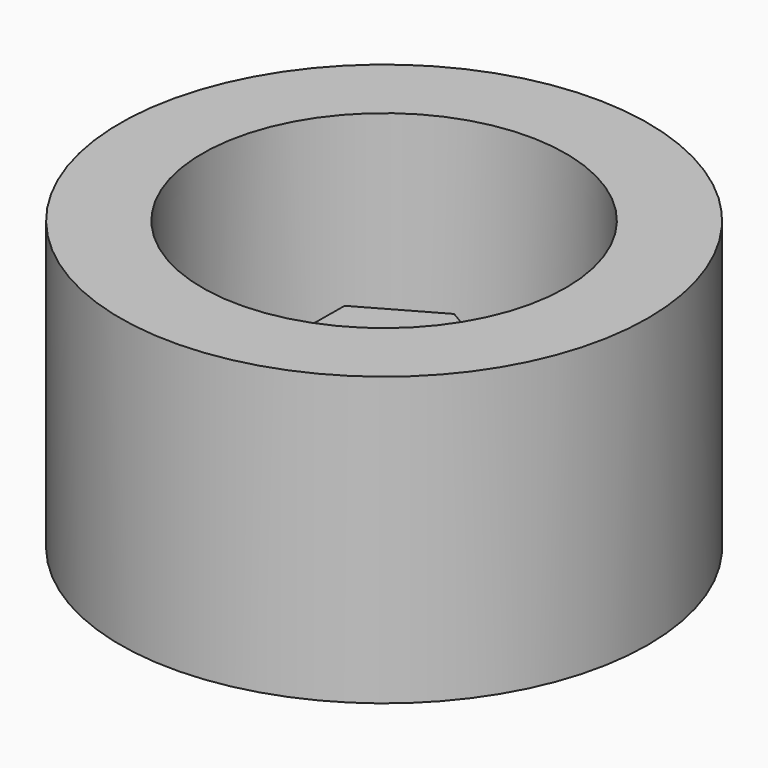
from build123d import *

# Parameters (mm, degrees)
F0_R     = 4.425
F1_DEPTH = 2
F0_R_2   = 6.425
F2_DEPTH = 7
F3_DEPTH = 4.15


with BuildPart() as f1:
    # F0 (on Top) → F1 (new body)
    with BuildSketch(Plane.XY):
        Circle(F0_R)
        Polygon((1.816103, -1.068927), (-0.017667, -2.107254), (-1.833769, -1.038327), (-1.816103, 1.068927), (0.017667, 2.107254), (1.833769, 1.038327), align=None, mode=Mode.SUBTRACT)
    extrude(amount=F1_DEPTH)

    # F0 (on Top) → F2 (join)
    with BuildSketch(Plane.XY):
        Circle(F0_R_2)
        Circle(F0_R, mode=Mode.SUBTRACT)
    extrude(amount=F2_DEPTH)

    # F0 (on Top) → F3 (join)
    with BuildSketch(Plane.XY):
        Polygon((-1.833769, -1.038327), (-0.017667, -2.107254), (1.816103, -1.068927), (1.833769, 1.038327), (0.017667, 2.107254), (-1.816103, 1.068927), align=None)
    extrude(amount=F3_DEPTH)


solid = f1.part
